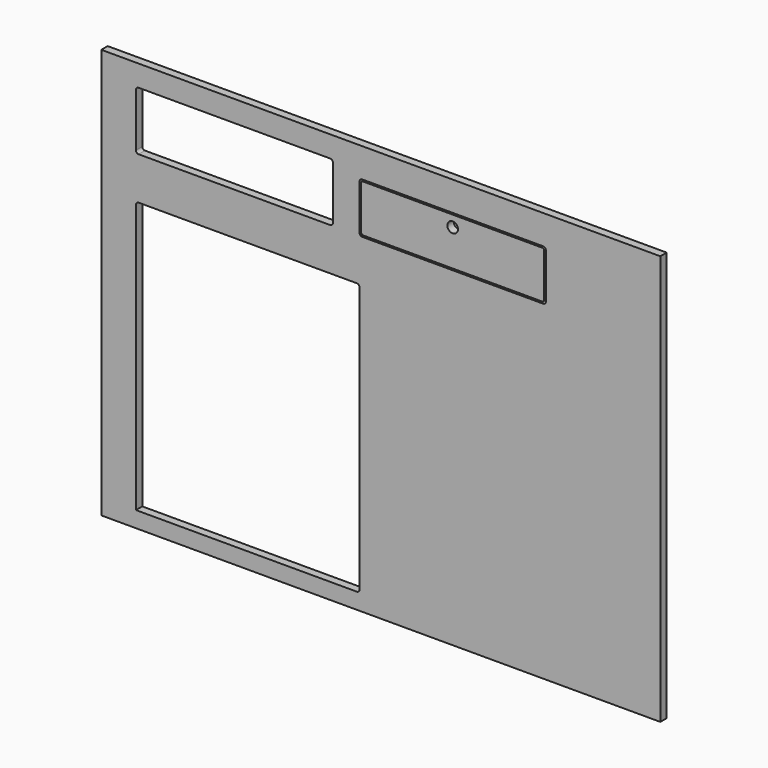
from build123d import *

# Parameters (mm, degrees)
F0_R     = 10
F1_DEPTH = 15
F0_W     = 1050
F0_H     = 770
F0_W_2   = 685
F0_H_2   = 15
F2_DEPTH = 10


with BuildPart() as f1:
    # F0 (on Front) → F1 (new body)
    with BuildSketch(Plane.XZ):
        with BuildLine():
            ThreePointArc((488, -143), (489.1715728753, -145.8284271247), (492, -147))
            Line((492, -147), (828, -147))
            ThreePointArc((828, -147), (830.8284271247, -145.8284271247), (832, -143))
            Line((832, -143), (832, -62))
            ThreePointArc((832, -62), (830.8284271247, -59.1715728753), (828, -58))
            Line((828, -58), (492, -58))
            ThreePointArc((492, -58), (489.1715728753, -59.1715728753), (488, -62))
            Line((488, -62), (488, -143))
        make_face()
        with Locations((660, -79)):
            Circle(F0_R, mode=Mode.SUBTRACT)
    extrude(amount=F1_DEPTH)


with BuildPart() as f1b:
    # F0 (on Front) → F1, piece 2 (new body)
    with BuildSketch(Plane.XZ):
        with Locations((525, -385)):
            Rectangle(F0_W, F0_H)
        with BuildLine():
            Line((480, -740), (65, -740))
            Line((65, -740), (65, -235))
            ThreePointArc((65, -235), (66.4644660941, -231.4644660941), (70, -230))
            Line((70, -230), (480, -230))
            ThreePointArc((480, -230), (483.5355339059, -231.4644660941), (485, -235))
            Line((485, -235), (485, -735))
            ThreePointArc((485, -735), (483.5355339059, -738.5355339059), (480, -740))
        make_face(mode=Mode.SUBTRACT)
        with Locations((507.5, -202.5)):
            Rectangle(F0_W_2, F0_H_2, mode=Mode.SUBTRACT)
        with BuildLine():
            ThreePointArc((65, -45), (66.4644660941, -41.4644660941), (70, -40))
            Line((70, -40), (430, -40))
            ThreePointArc((430, -40), (433.5355339059, -41.4644660941), (435, -45))
            Line((435, -45), (435, -145))
            ThreePointArc((435, -145), (433.5355339059, -148.5355339059), (430, -150))
            Line((430, -150), (70, -150))
            ThreePointArc((70, -150), (66.4644660941, -148.5355339059), (65, -145))
            Line((65, -145), (65, -45))
        make_face(mode=Mode.SUBTRACT)
        with BuildLine():
            Line((830, -150), (490, -150))
            ThreePointArc((490, -150), (486.4644660941, -148.5355339059), (485, -145))
            Line((485, -145), (485, -60))
            ThreePointArc((485, -60), (486.4644660941, -56.4644660941), (490, -55))
            Line((490, -55), (830, -55))
            ThreePointArc((830, -55), (833.5355339059, -56.4644660941), (835, -60))
            Line((835, -60), (835, -145))
            ThreePointArc((835, -145), (833.5355339059, -148.5355339059), (830, -150))
        make_face(mode=Mode.SUBTRACT)
        with Locations((507.5, -202.5)):
            Rectangle(F0_W_2, F0_H_2)
    extrude(amount=F1_DEPTH)

    # F0 (on Front) → F2 (cut)
    with BuildSketch(Plane.XZ):
        with Locations((507.5, -202.5)):
            Rectangle(F0_W_2, F0_H_2)
    extrude(amount=F2_DEPTH, mode=Mode.SUBTRACT)


solid = Compound([f1.part, f1b.part])
